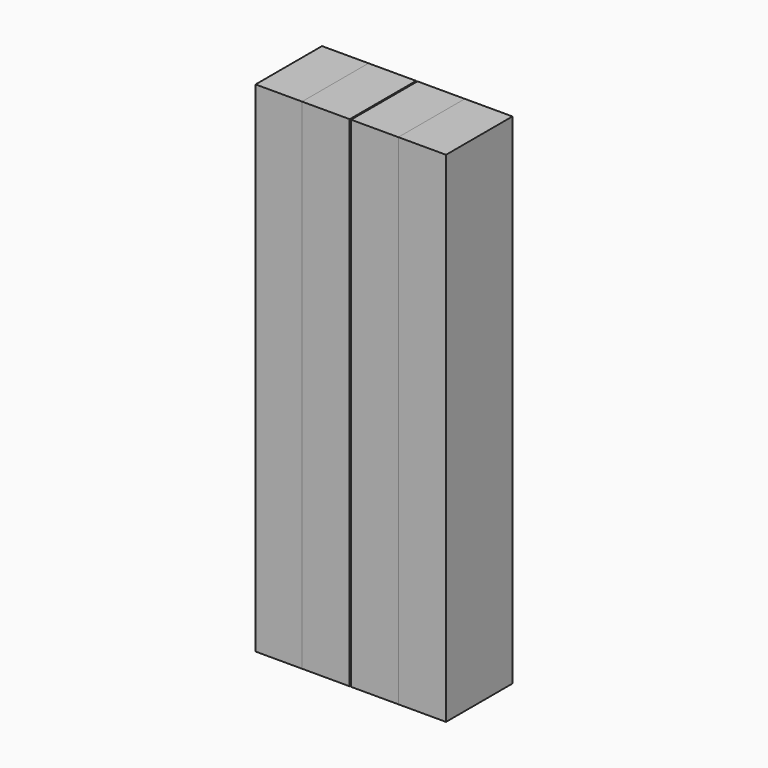
from build123d import *

# Parameters (mm, degrees)
F0_W     = 14.571805
F0_H     = 152.734101
F1_DEPTH = 25.4


with BuildPart() as f1:
    # F0 (on Front) → F1 (new body)
    with BuildSketch(Plane.XZ):
        with Locations((-68.54145, -0.404775)):
            Rectangle(F0_W, F0_H)
    extrude(amount=F1_DEPTH)


with BuildPart() as f2_1:
    # F2: copy of F1
    add(f1.part.moved(Location((14.224, 0, 0))))


with BuildPart() as f3_1:
    # F3: copy of F2_1
    add(f2_1.part.moved(Location((14.986, 0, 0))))


with BuildPart() as f4_1:
    # F4: copy of F3_1
    add(f3_1.part.moved(Location((14.478, 0, 0))))


solid = Compound([f1.part, f2_1.part, f3_1.part, f4_1.part])
